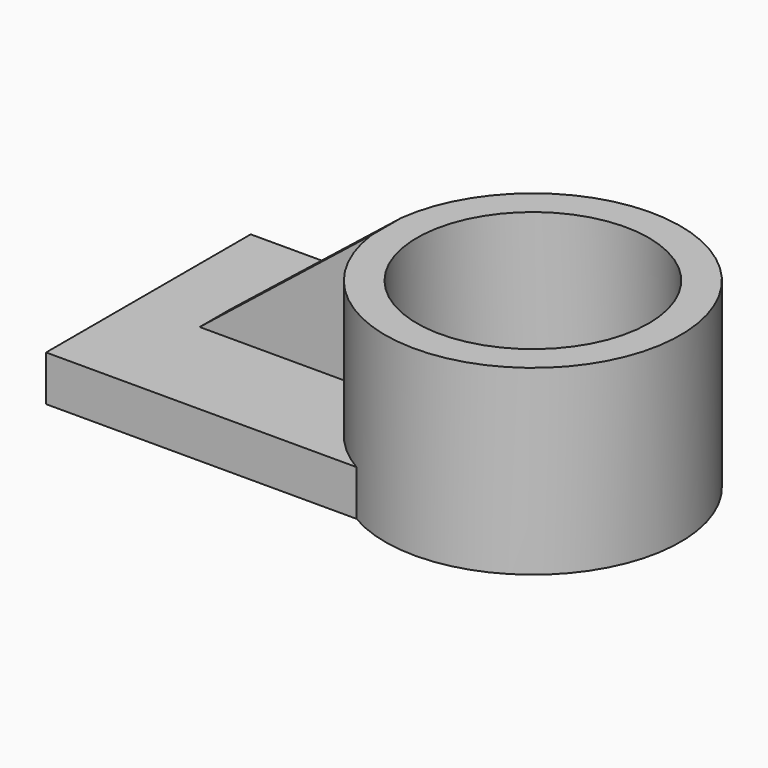
from build123d import *

# Parameters (mm, degrees)
F0_W      = 94.672728
F0_H      = 71.350906
F1_DEPTH  = 12.7
F3_DEPTH  = 12.701
F4_R      = 41.183466
F5_DEPTH  = 50.8
F6_R      = 32.333479
F7_DEPTH  = 50.801
F8_W      = 47.867391
F8_H      = 10.548822
F9_DEPTH  = 38.1
F11_DEPTH = 46.481614


with BuildPart() as f1:
    # F0 (on Top) → F1 (new body)
    with BuildSketch(Plane.XY):
        with Locations((-9.467272, -1.847273)):
            Rectangle(F0_W, F0_H)
    extrude(amount=F1_DEPTH)

    # F2 (on face) → F3 (cut, through all)
    with BuildSketch(Plane.XY.offset(12.7)):
        with BuildLine():
            Line((37.869092, -37.522726), (37.869092, 33.82818))
            ThreePointArc((37.869092, 33.82818), (16.340406, -1.847273), (37.869092, -37.522726))
        make_face()
    extrude(amount=-F3_DEPTH, mode=Mode.SUBTRACT)

    # F4 (on Top) → F5 (join)
    with BuildSketch(Plane.XY):
        with Locations((50.53845, -1.962727)):
            Circle(F4_R)
    extrude(amount=F5_DEPTH)

    # F6 (on face) → F7 (cut, through all)
    with BuildSketch(Plane.XY.offset(50.8)):
        with Locations((50.53845, -1.962727)):
            Circle(F6_R)
    extrude(amount=-F7_DEPTH, mode=Mode.SUBTRACT)

    # F8 (on face) → F9 (join)
    with BuildSketch(Plane.XY.offset(12.7)):
        with Locations((-14.242494, -1.985464)):
            Rectangle(F8_W, F8_H)
    extrude(amount=F9_DEPTH)

    # F10 (on face) → F11 (cut, through all)
    with BuildSketch(Plane.XZ.offset(7.259875)):
        Polygon((-38.17619, 12.7), (9.691201, 50.8), (-38.17619, 50.8), align=None)
    extrude(amount=-F11_DEPTH, mode=Mode.SUBTRACT)


solid = f1.part
